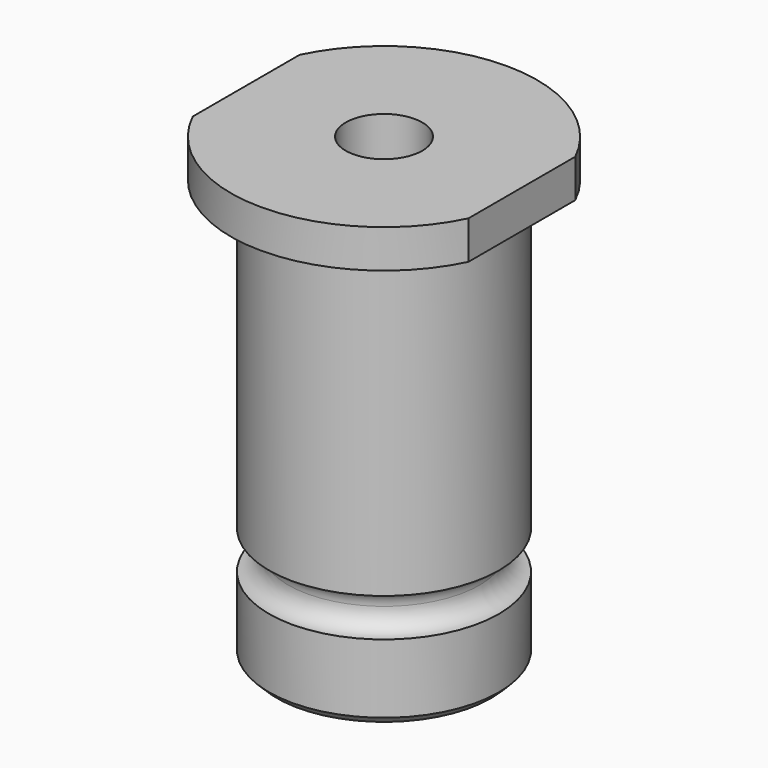
from build123d import *

# Parameters (mm, degrees)
F1_R     = 15
F2_DEPTH = 55
F3_R     = 20
F5_DEPTH = 5
F6_R     = 5
F7_DEPTH = 60.001
F9_DEPTH = 60.001
F10_R    = 2.5
F12_SIZE = 1


with BuildPart() as f2:
    # F1 (on Top) → F2 (new body)
    with BuildSketch(Plane.XY):
        Circle(F1_R)
    extrude(amount=F2_DEPTH)

    # F3 (on face) → F5 (join, through all)
    with BuildSketch(Plane.XY.offset(55)):
        Circle(F3_R)
    extrude(amount=F5_DEPTH)

    # F6 (on face) → F7 (cut, through all)
    with BuildSketch(Plane.XY.offset(60)):
        Circle(F6_R)
    extrude(amount=-F7_DEPTH, mode=Mode.SUBTRACT)

    # F8 (on face) → F9 (cut, through all)
    with BuildSketch(Plane.XY.offset(60)):
        with BuildLine():
            Line((-18, -8.7177978871), (-18, 0))
            Line((-18, 0), (-18, 8.7177978871))
            ThreePointArc((-18, 8.7177978871), (-20, 0), (-18, -8.7177978871))
        make_face()
        with BuildLine():
            Line((18, 8.7177978871), (18, 0))
            Line((18, 0), (18, -8.7177978871))
            ThreePointArc((18, -8.7177978871), (19.4935886896, -4.472135955), (20, 0))
            ThreePointArc((20, 0), (19.4935886896, 4.472135955), (18, 8.7177978871))
        make_face()
    extrude(amount=-F9_DEPTH, mode=Mode.SUBTRACT)

    # F10 (on Right) → F11 (revolve, cut)
    with BuildSketch(Plane.YZ):
        with Locations((-15, 12.5)):
            Circle(F10_R)
    revolve(axis=Axis((0, 0, 0), (0, 0, -1)), mode=Mode.SUBTRACT)

    # F12
    f12_edges = [f2.edges().sort_by_distance(p)[0] for p in [
        (-15, 0, 0),
    ]]
    chamfer(f12_edges, length=F12_SIZE)


solid = f2.part
